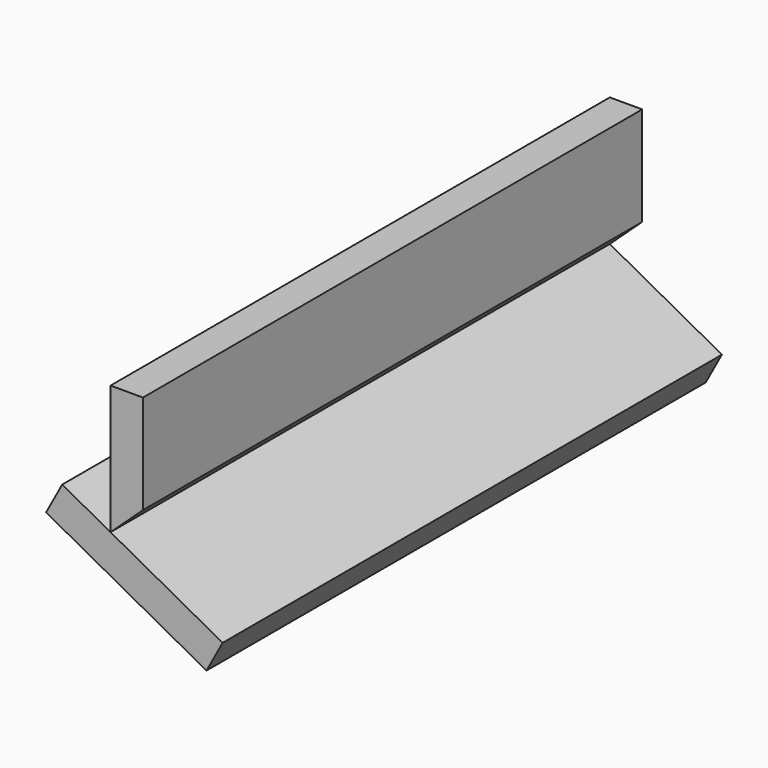
from build123d import *

# Parameters (mm, degrees)
F1_DEPTH = 80


with BuildPart() as f1:
    # F0 (on Front) → F1 (new body)
    with BuildSketch(Plane.XZ):
        Polygon((14.374554, -24.353451), (0, -16.545052), (-6.189556, -13.182824), (-8.260938, -16.99605), (12.303172, -28.166677), align=None)
        Polygon((4.157281, 0), (0, 0), (0, -16.545052), (4.157281, -12.699814), align=None)
    extrude(amount=-F1_DEPTH)


solid = f1.part
